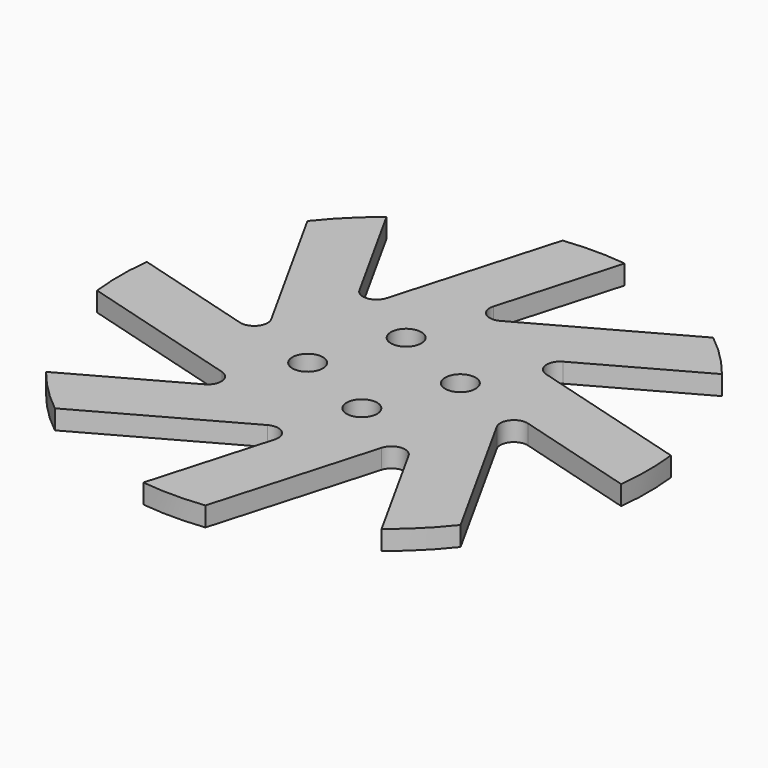
from build123d import *

# Parameters (mm, degrees)
F0_R     = 1.2446
F1_DEPTH = 0.79375


with BuildPart() as f1:
    # F0 (on Top) → F1 (new body, symmetric)
    with BuildSketch(Plane.XY):
        with BuildLine():
            ThreePointArc((-13.3643659864, 16.9564684348), (-15.2664354058, 15.2664354058), (-16.9564684348, 13.3643659864))
            Line((-16.9564684348, 13.3643659864), (-10.2727180806, 1.3065611631))
            ThreePointArc((-10.2727180806, 1.3065611631), (-10.3747211482, 0.0789927684), (-11.5478813469, -0.2965387719))
            Line((-11.5478813469, -0.2965387719), (-21.4400676305, 2.54))
            ThreePointArc((-21.4400676305, 2.54), (-21.59, 0), (-21.4400676305, -2.54))
            Line((-21.4400676305, -2.54), (-8.1877868744, -6.3400303576))
            ThreePointArc((-8.1877868744, -6.3400303576), (-7.391891999, -7.2801793546), (-7.9559006322, -8.3752697852))
            Line((-7.9559006322, -8.3752697852), (-16.9564684348, -13.3643659864))
            ThreePointArc((-16.9564684348, -13.3643659864), (-15.2664354058, -15.2664354058), (-13.3643659864, -16.9564684348))
            Line((-13.3643659864, -16.9564684348), (-1.3065611631, -10.2727180806))
            ThreePointArc((-1.3065611631, -10.2727180806), (-0.0789927684, -10.3747211482), (0.2965387719, -11.5478813469))
            Line((0.2965387719, -11.5478813469), (-2.54, -21.4400676305))
            ThreePointArc((-2.54, -21.4400676305), (0, -21.59), (2.54, -21.4400676305))
            Line((2.54, -21.4400676305), (6.3400303576, -8.1877868744))
            ThreePointArc((6.3400303576, -8.1877868744), (7.2801793546, -7.391891999), (8.3752697852, -7.9559006322))
            Line((8.3752697852, -7.9559006322), (13.3643659864, -16.9564684348))
            ThreePointArc((13.3643659864, -16.9564684348), (15.2664354058, -15.2664354058), (16.9564684348, -13.3643659864))
            Line((16.9564684348, -13.3643659864), (10.2727180806, -1.3065611631))
            ThreePointArc((10.2727180806, -1.3065611631), (10.3747211482, -0.0789927684), (11.5478813469, 0.2965387719))
            Line((11.5478813469, 0.2965387719), (21.4400676305, -2.54))
            ThreePointArc((21.4400676305, -2.54), (21.59, 0), (21.4400676305, 2.54))
            Line((21.4400676305, 2.54), (8.1877868744, 6.3400303576))
            ThreePointArc((8.1877868744, 6.3400303576), (7.391891999, 7.2801793546), (7.9559006322, 8.3752697852))
            Line((7.9559006322, 8.3752697852), (16.9564684348, 13.3643659864))
            ThreePointArc((16.9564684348, 13.3643659864), (15.2664354058, 15.2664354058), (13.3643659864, 16.9564684348))
            Line((13.3643659864, 16.9564684348), (1.3065611631, 10.2727180806))
            ThreePointArc((1.3065611631, 10.2727180806), (0.0789927684, 10.3747211482), (-0.2965387719, 11.5478813469))
            Line((-0.2965387719, 11.5478813469), (2.54, 21.4400676305))
            ThreePointArc((2.54, 21.4400676305), (0, 21.59), (-2.54, 21.4400676305))
            Line((-2.54, 21.4400676305), (-6.3400303576, 8.1877868744))
            ThreePointArc((-6.3400303576, 8.1877868744), (-7.2801793546, 7.391891999), (-8.3752697852, 7.9559006322))
            Line((-8.3752697852, 7.9559006322), (-13.3643659864, 16.9564684348))
        make_face()
        with Locations((-4.6933080252, -1.9440318364)):
            Circle(F0_R, mode=Mode.SUBTRACT)
        with Locations((1.9440318364, -4.6933080252)):
            Circle(F0_R, mode=Mode.SUBTRACT)
        with Locations((-1.9440318364, 4.6933080252)):
            Circle(F0_R, mode=Mode.SUBTRACT)
        with Locations((4.6933080252, 1.9440318364)):
            Circle(F0_R, mode=Mode.SUBTRACT)
    extrude(amount=F1_DEPTH, both=True)


solid = f1.part
